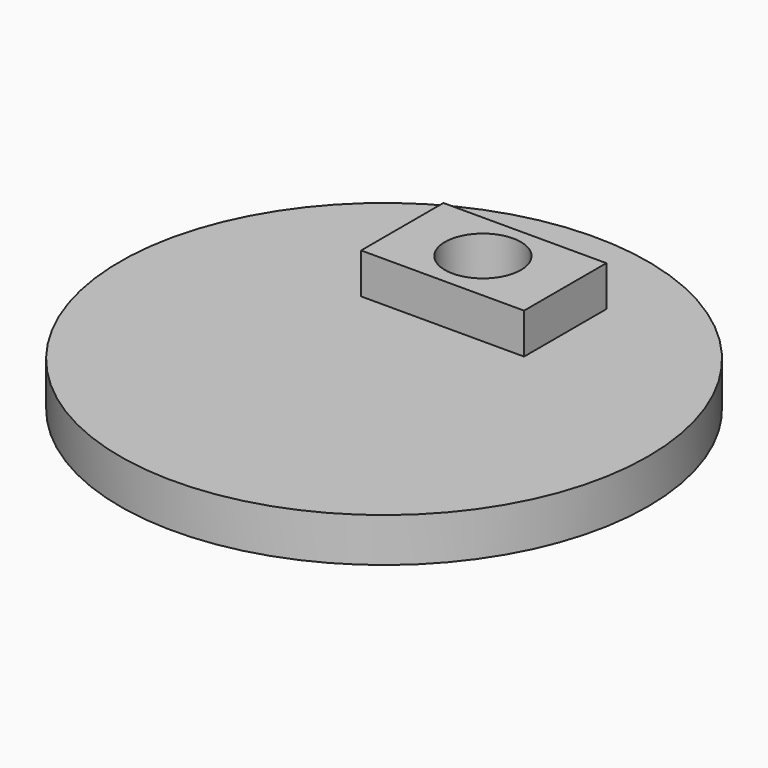
from build123d import *

# Parameters (mm, degrees)
F0_R     = 38.1
F1_DEPTH = 6.35
F2_W     = 23.521014
F2_H     = 14.845229
F3_DEPTH = 5.842
F4_R     = 5.483658
F5_DEPTH = 27.94


with BuildPart() as f1:
    # F0 (on Top) → F1 (new body)
    with BuildSketch(Plane.XY):
        Circle(F0_R)
    extrude(amount=F1_DEPTH)

    # F2 (on face) → F3 (join)
    with BuildSketch(Plane.XY.offset(6.35)):
        with Locations((0.192795, 17.737156)):
            Rectangle(F2_W, F2_H)
    extrude(amount=F3_DEPTH)

    # F4 (on face) → F5 (cut)
    with BuildSketch(Plane.XY.offset(12.192)):
        with Locations((0, 17.833555)):
            Circle(F4_R)
    extrude(amount=-F5_DEPTH, mode=Mode.SUBTRACT)


solid = f1.part
